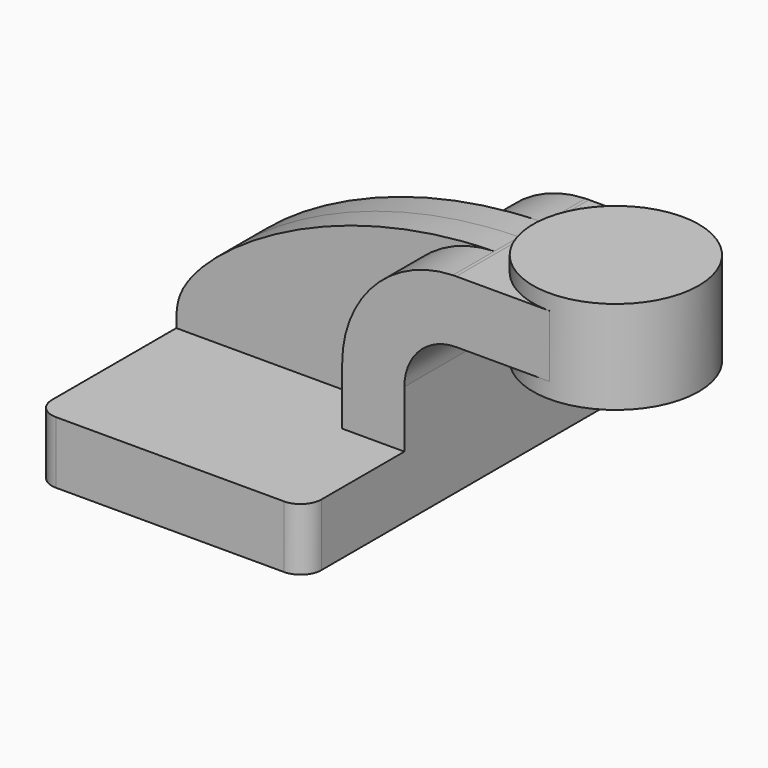
from build123d import *

# Parameters (mm, degrees)
F1_DEPTH = 63.5
F0_W     = 25.4
F0_H     = 19.05
F2_DEPTH = 25.4
F3_DEPTH = 9.525
F5_R     = 6.35


with BuildPart() as f1:
    # F0 (on Front) → F1 (new body, symmetric)
    with BuildSketch(Plane.XZ):
        Polygon((41.8010104373, -9.525), (41.8010104373, 9.525), (22.7510104373, 9.525), (-40.7489895627, 9.525), (-40.7489895627, -9.525), align=None)
    extrude(amount=F1_DEPTH, both=True)

    # F0 (on Front) → F2 (join, symmetric)
    with BuildSketch(Plane.XZ):
        with BuildLine():
            Line((22.7510104373, 9.525), (41.8010104373, 9.525))
            Line((41.8010104373, 9.525), (41.8010104373, 27.0002))
            ThreePointArc((41.8010104373, 27.0002), (46.450690286, 38.2255201513), (57.6760104373, 42.8752))
            Line((57.6760104373, 42.8752), (60.8510104373, 42.8752))
            Line((60.8510104373, 42.8752), (60.8510104373, 61.9252))
            Line((60.8510104373, 61.9252), (57.6760104373, 61.9252))
            add(Edge.make_bspline(
                [(56.6446646916, 61.9099687038), (56.9878382541, 61.9161978129), (57.3316219018, 61.9212787105), (57.6760104373, 61.9252)],
                knots=[0.9948956948, 0.9948956948, 0.9948956948, 0.9948956948, 1, 1, 1, 1], degree=3))
            ThreePointArc((56.6446646916, 61.9099687038), (32.6183232419, 51.3285361004), (22.7510104373, 27.0002))
            Line((22.7510104373, 27.0002), (22.7510104373, 9.525))
        make_face()
        with Locations((73.5510104373, 52.4002)):
            Rectangle(F0_W, F0_H)
    extrude(amount=F2_DEPTH, both=True)

    # F0 (on Front) → F3 (join, symmetric)
    with BuildSketch(Plane.XZ):
        with BuildLine():
            Line((-40.7489895627, 9.525), (22.7510104373, 9.525))
            Line((22.7510104373, 9.525), (22.7510104373, 27.0002))
            ThreePointArc((22.7510104373, 27.0002), (32.6183232419, 51.3285361004), (56.6446646916, 61.9099687038))
            add(Edge.make_bspline(
                [(-40.7489895627, 9.525), (-40.621932596, 12.8394663334), (-42.7097986474, 27.3949984954), (6.9644447901, 61.0081990399), (56.6446646916, 61.9099687038)],
                knots=[0, 0, 0, 0, 0.2559605567, 0.9948956948, 0.9948956948, 0.9948956948, 0.9948956948], degree=3))
        make_face()
    extrude(amount=F3_DEPTH, both=True)

    # F5
    f5_edges = [f1.edges().sort_by_distance(p)[0] for p in [
        (-40.74899, -63.5, 0),
        (41.80101, -63.5, 0),
        (41.80101, 63.5, 0),
        (-40.74899, 63.5, 0),
    ]]
    fillet(f5_edges, radius=F5_R)


with BuildPart() as f4:
    # F0 (on Front) → F4 (revolve)
    with BuildSketch(Plane.XZ):
        Polygon((86.2510104373, 61.9252), (86.2510104373, 42.8752), (86.2510104373, 38.1), (111.6510104373, 38.1), (111.6510104373, 66.675), (86.2510104373, 66.675), align=None)
    revolve(axis=Axis((86.2510104373, 0, 52.3875), (0, 0, 1)))


solid = Compound([f1.part, f4.part])
